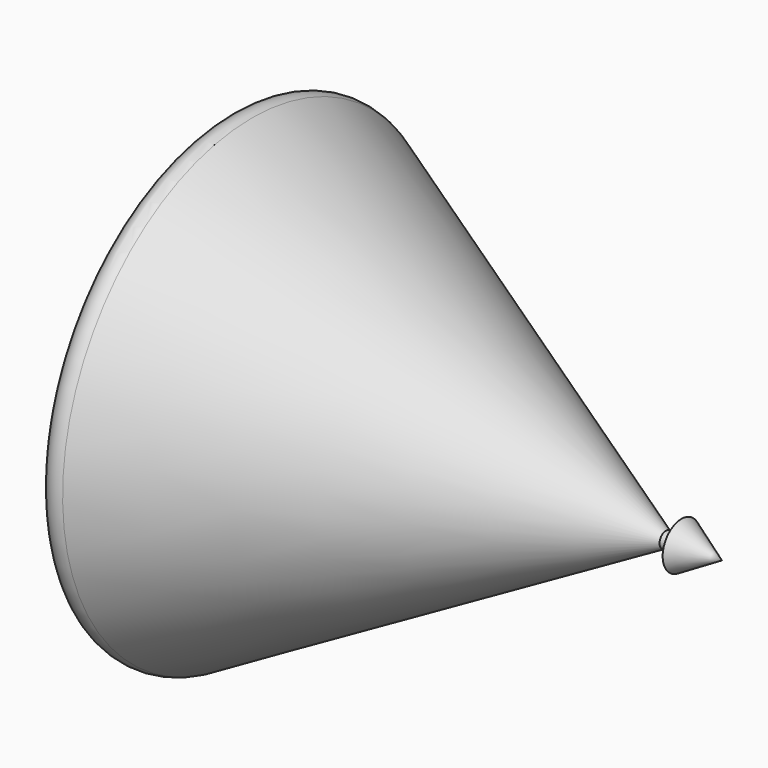
from build123d import *


with BuildPart() as f1:
    # F0 (on Front) → F1 (revolve)
    with BuildSketch(Plane.XZ):
        with BuildLine():
            Line((0, 50), (0, 0))
            Line((0, 0), (172.990381, 0))
            Line((172.990381, 0), (160, 7.5))
            Line((160, 7.5), (160, 2.5))
            Line((160, 2.5), (155, 2.5))
            Line((155, 2.5), (22.421579, 75.891626))
            ThreePointArc((22.421579, 75.891626), (17.461092, 75.824589), (15, 71.51716))
            Line((15, 71.51716), (15, 50))
            Line((15, 50), (0, 50))
        make_face()
    revolve(axis=Axis((-26.037737, 0, 0), (-1, 0, 0)))


solid = f1.part
